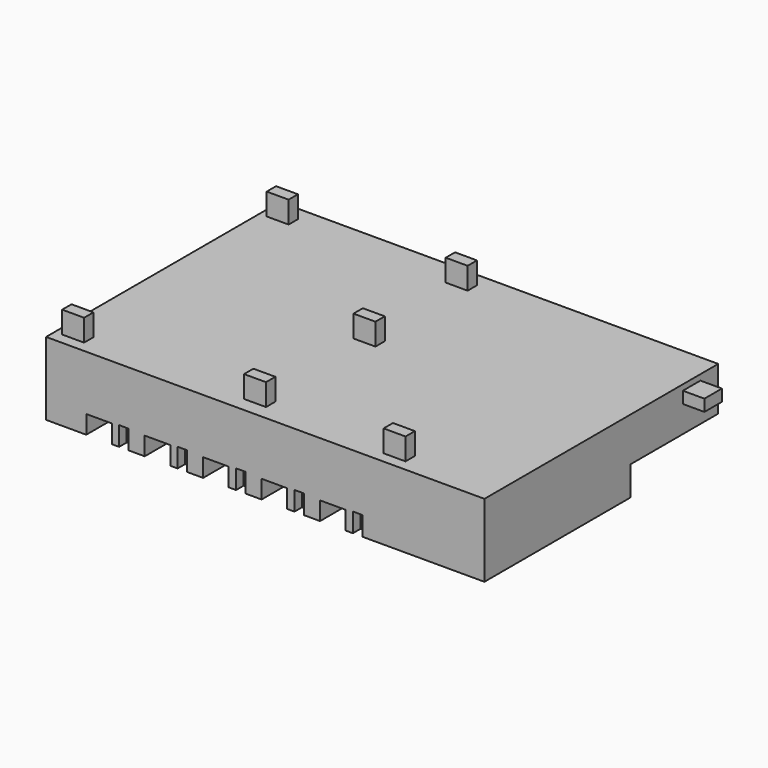
from build123d import *

# Parameters (mm, degrees)
BOX006_W     = 1066.8
BOX006_H     = 1981.2
BOX006_DEPTH = 762
BOX005_W     = 396.24
BOX005_H     = 396.24
BOX005_DEPTH = 798.576
BOX007_W     = 1066.8
BOX007_H     = 1981.2
BOX007_DEPTH = 762
BOX008_W     = 396.24
BOX008_H     = 396.24
BOX008_DEPTH = 798.576
BOX010_W     = 1066.8
BOX010_H     = 1981.2
BOX010_DEPTH = 762
BOX009_W     = 396.24
BOX009_H     = 396.24
BOX009_DEPTH = 798.576
BOX001_W     = 1066.8
BOX001_H     = 1981.2
BOX001_DEPTH = 762
BOX002_W     = 396.24
BOX002_H     = 396.24
BOX002_DEPTH = 798.576
BOX003_W     = 1066.8
BOX003_H     = 1981.2
BOX003_DEPTH = 762
BOX004_W     = 396.24
BOX004_H     = 396.24
BOX004_DEPTH = 798.576
BOX011_W     = 3048
BOX011_H     = 4572
BOX011_DEPTH = 1219.2
BOX_W        = 18288
BOX_H        = 12192
BOX_DEPTH    = 3048
BOX022_W     = 914.4
BOX022_H     = 487.68
BOX022_DEPTH = 1219.2
BOX020_W     = 914.4
BOX020_H     = 487.68
BOX020_DEPTH = 1219.2
BOX018_W     = 914.4
BOX018_H     = 487.68
BOX018_DEPTH = 1219.2
BOX019_W     = 914.4
BOX019_H     = 487.68
BOX019_DEPTH = 1219.2
BOX015_W     = 914.4
BOX015_H     = 487.68
BOX015_DEPTH = 1219.2
BOX021_W     = 914.4
BOX021_H     = 487.68
BOX021_DEPTH = 1219.2
BOX023_W     = 914.4
BOX023_H     = 487.68
BOX023_DEPTH = 1219.2


with BuildPart() as box006:
    # Box006 → Box006 (new body)
    with BuildSketch(Plane.XY):
        with Locations((533.4, 990.6)):
            Rectangle(BOX006_W, BOX006_H)
    extrude(amount=BOX006_DEPTH)


with BuildPart() as fusion002:
    # Box005 → Box005 (new body)
    with BuildSketch(Plane(origin=(1371.6, 0, 0), x_dir=(1, 0, 0), z_dir=(0, 0, 1))):
        with Locations((198.12, 198.12)):
            Rectangle(BOX005_W, BOX005_H)
    extrude(amount=BOX005_DEPTH)

    # Fusion002: union Box006
    add(box006.part)


with BuildPart() as fusion002_1:
    # Fusion002 placement: moved
    add(fusion002.part.moved(Location((4876.8, 0, 0))))


with BuildPart() as box007:
    # Box007 → Box007 (new body)
    with BuildSketch(Plane.XY):
        with Locations((533.4, 990.6)):
            Rectangle(BOX007_W, BOX007_H)
    extrude(amount=BOX007_DEPTH)


with BuildPart() as fusion003:
    # Box008 → Box008 (new body)
    with BuildSketch(Plane(origin=(1371.6, 0, 0), x_dir=(1, 0, 0), z_dir=(0, 0, 1))):
        with Locations((198.12, 198.12)):
            Rectangle(BOX008_W, BOX008_H)
    extrude(amount=BOX008_DEPTH)

    # Fusion003: union Box007
    add(box007.part)


with BuildPart() as fusion003_1:
    # Fusion003 placement: moved
    add(fusion003.part.moved(Location((7315.2, 0, 0))))


with BuildPart() as box010:
    # Box010 → Box010 (new body)
    with BuildSketch(Plane.XY):
        with Locations((533.4, 990.6)):
            Rectangle(BOX010_W, BOX010_H)
    extrude(amount=BOX010_DEPTH)


with BuildPart() as fusion004:
    # Box009 → Box009 (new body)
    with BuildSketch(Plane(origin=(1371.6, 0, 0), x_dir=(1, 0, 0), z_dir=(0, 0, 1))):
        with Locations((198.12, 198.12)):
            Rectangle(BOX009_W, BOX009_H)
    extrude(amount=BOX009_DEPTH)

    # Fusion004: union Box010
    add(box010.part)


with BuildPart() as fusion004_1:
    # Fusion004 placement: moved
    add(fusion004.part.moved(Location((9753.6, 0, 0))))


with BuildPart() as box001:
    # Box001 → Box001 (new body)
    with BuildSketch(Plane.XY):
        with Locations((533.4, 990.6)):
            Rectangle(BOX001_W, BOX001_H)
    extrude(amount=BOX001_DEPTH)


with BuildPart() as fusion:
    # Box002 → Box002 (new body)
    with BuildSketch(Plane(origin=(1371.6, 0, 0), x_dir=(1, 0, 0), z_dir=(0, 0, 1))):
        with Locations((198.12, 198.12)):
            Rectangle(BOX002_W, BOX002_H)
    extrude(amount=BOX002_DEPTH)

    # Fusion: union Box001
    add(box001.part)


with BuildPart() as box003:
    # Box003 → Box003 (new body)
    with BuildSketch(Plane.XY):
        with Locations((533.4, 990.6)):
            Rectangle(BOX003_W, BOX003_H)
    extrude(amount=BOX003_DEPTH)


with BuildPart() as right_beds:
    # Box004 → Box004 (new body)
    with BuildSketch(Plane(origin=(1371.6, 0, 0), x_dir=(1, 0, 0), z_dir=(0, 0, 1))):
        with Locations((198.12, 198.12)):
            Rectangle(BOX004_W, BOX004_H)
    extrude(amount=BOX004_DEPTH)

    # Fusion001: union Box003
    add(box003.part)


with BuildPart() as right_beds_1:
    # Fusion001 placement: moved
    add(right_beds.part.moved(Location((2438.4, 0, 0))))

    # Fusion005: union Fusion002, Fusion003, Fusion004, Fusion
    add(fusion002_1.part)
    add(fusion003_1.part)
    add(fusion004_1.part)
    add(fusion.part)


with BuildPart() as all_beds:
    # Part__Mirroring: instance of right beds
    add(right_beds_1.part.mirror(Plane(origin=(0, 6096, 0), x_dir=(1, 0, 0), z_dir=(0, 1, 0))))

    # Fusion006: union right beds
    add(right_beds_1.part)


with BuildPart() as all_beds_1:
    # Fusion006 placement: moved
    add(all_beds.part.moved(Location((1676.4, 0, 0))))


with BuildPart() as surfaces:
    # Box011 → Box011 (new body)
    with BuildSketch(Plane(origin=(15240, 7620, 0), x_dir=(1, 0, 0), z_dir=(0, 0, 1))):
        with Locations((1524, 2286)):
            Rectangle(BOX011_W, BOX011_H)
    extrude(amount=BOX011_DEPTH)

    # Fusion008: union all beds
    add(all_beds_1.part)


with BuildPart() as room:
    # Box → Box (new body)
    with BuildSketch(Plane.XY):
        with Locations((9144, 6096)):
            Rectangle(BOX_W, BOX_H)
    extrude(amount=BOX_DEPTH)


with BuildPart() as box022:
    # Box022 → Box022 (new body)
    with BuildSketch(Plane(origin=(17966.67984, 10348.63056, 2324.77056), x_dir=(0, 1, 0), z_dir=(1, 0, 0))):
        with Locations((457.2, 243.84)):
            Rectangle(BOX022_W, BOX022_H)
    extrude(amount=BOX022_DEPTH)


with BuildPart() as box020:
    # Box020 → Box020 (new body)
    with BuildSketch(Plane(origin=(7772.4, 11125.2, 2743.2), x_dir=(1, 0, 0), z_dir=(0, 0, 1))):
        with Locations((457.2, 243.84)):
            Rectangle(BOX020_W, BOX020_H)
    extrude(amount=BOX020_DEPTH)


with BuildPart() as box018:
    # Box018 → Box018 (new body)
    with BuildSketch(Plane(origin=(304.8, 457.2, 2743.2), x_dir=(1, 0, 0), z_dir=(0, 0, 1))):
        with Locations((457.2, 243.84)):
            Rectangle(BOX018_W, BOX018_H)
    extrude(amount=BOX018_DEPTH)


with BuildPart() as box019:
    # Box019 → Box019 (new body)
    with BuildSketch(Plane(origin=(304.8, 11125.2, 2743.2), x_dir=(1, 0, 0), z_dir=(0, 0, 1))):
        with Locations((457.2, 243.84)):
            Rectangle(BOX019_W, BOX019_H)
    extrude(amount=BOX019_DEPTH)


with BuildPart() as box015:
    # Box015 → Box015 (new body)
    with BuildSketch(Plane(origin=(13716, 457.2, 2743.2), x_dir=(1, 0, 0), z_dir=(0, 0, 1))):
        with Locations((457.2, 243.84)):
            Rectangle(BOX015_W, BOX015_H)
    extrude(amount=BOX015_DEPTH)


with BuildPart() as box021:
    # Box021 → Box021 (new body)
    with BuildSketch(Plane(origin=(7772.4, 609.6, 2743.2), x_dir=(1, 0, 0), z_dir=(0, 0, 1))):
        with Locations((457.2, 243.84)):
            Rectangle(BOX021_W, BOX021_H)
    extrude(amount=BOX021_DEPTH)


with BuildPart() as cut:
    # Box023 → Box023 (new body)
    with BuildSketch(Plane(origin=(7890.84528, 6168.42048, 2743.2), x_dir=(1, 0, 0), z_dir=(0, 0, 1))):
        with Locations((457.2, 243.84)):
            Rectangle(BOX023_W, BOX023_H)
    extrude(amount=BOX023_DEPTH)

    # Fusion009: union Box022, Box020, Box018, Box019, Box015, Box021
    add(box022.part)
    add(box020.part)
    add(box018.part)
    add(box019.part)
    add(box015.part)
    add(box021.part)

    # Fusion010: union Room
    add(room.part)

    # Cut: cut surfaces
    add(surfaces.part, mode=Mode.SUBTRACT)


solid = cut.part
